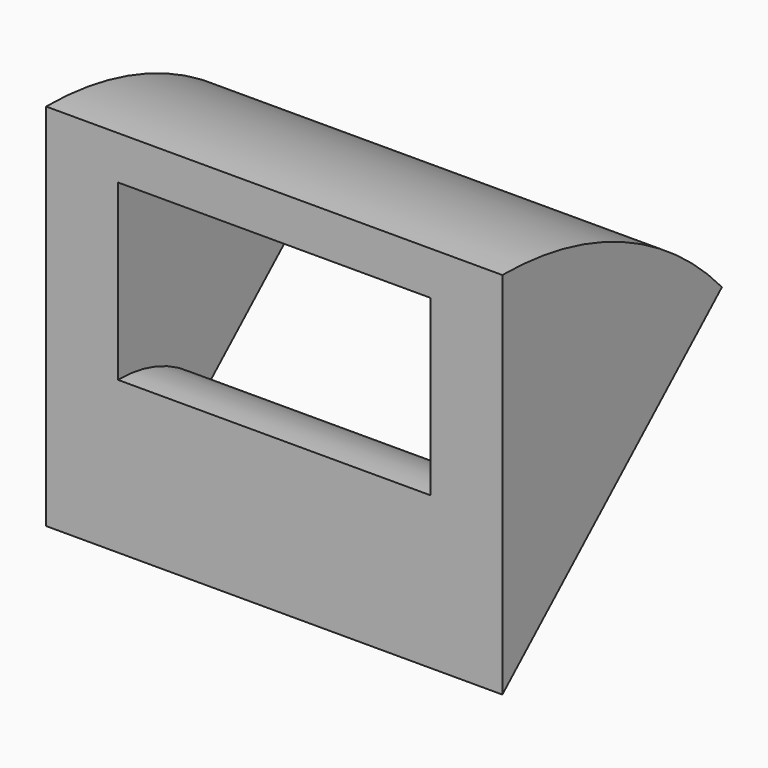
from build123d import *

# Parameters (mm, degrees)
F0_W     = 105
F0_H     = 85
F0_W_2   = 72
F0_H_2   = 40
F1_ANGLE = 48


with BuildPart() as f1:
    # F0 (on Front) → F1 (revolve)
    with BuildSketch(Plane.XZ):
        Rectangle(F0_W, F0_H)
        with Locations((0, 12.5)):
            Rectangle(F0_W_2, F0_H_2, mode=Mode.SUBTRACT)
    revolve(axis=Axis((0, 0, -42.5), (-1, 0, 0)), revolution_arc=F1_ANGLE)


solid = f1.part
